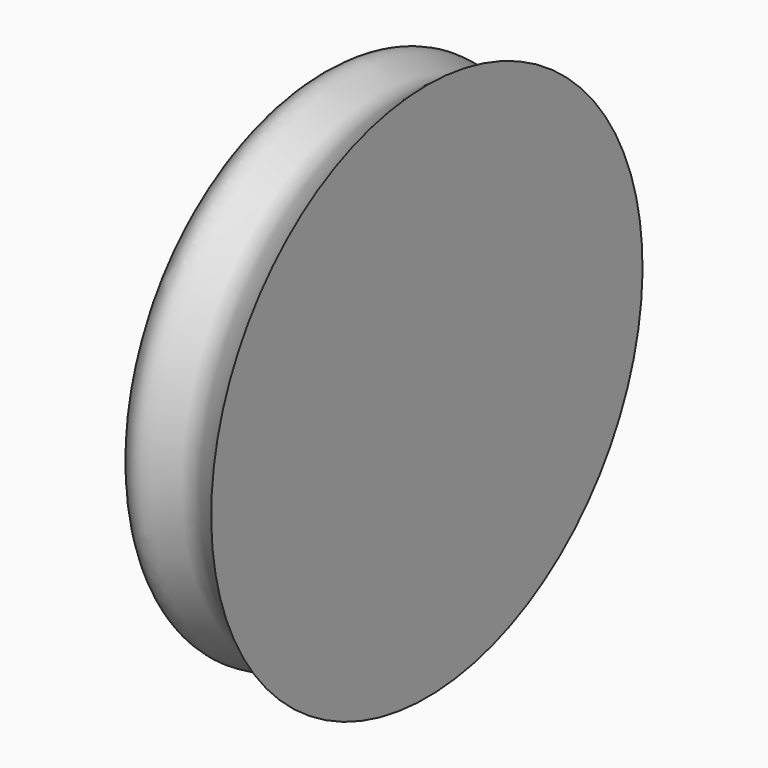
from build123d import *


with BuildPart() as f1:
    # F0 (on Front) → F1 (revolve)
    with BuildSketch(Plane.XZ):
        with BuildLine():
            Line((21.0993606597, 35), (21.0993606597, 0))
            Line((21.0993606597, 0), (41.0993606597, 0))
            Line((41.0993606597, 0), (41.0993606597, 43.2994892391))
            add(Edge.make_bspline(
                [(21.0993606597, 35), (22.8469479058, 37.7843732328), (26.2231403644, 43.1635495408), (34.1662660158, 37.4444506795), (38.7324351238, 41.3006069229), (41.0993606597, 43.2994892391)],
                knots=[0, 0, 0, 0, 0.3407286171, 0.6582592027, 1, 1, 1, 1], degree=3))
        make_face()
    revolve(axis=Axis((31.0993606597, 0, 0), (1, 0, 0)))


solid = f1.part
